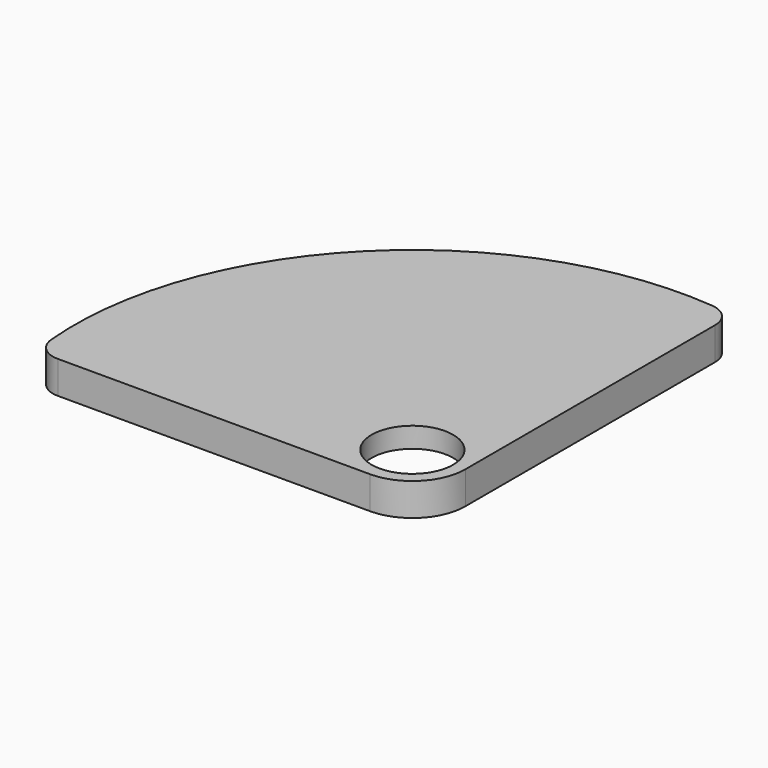
from build123d import *

# Parameters (mm, degrees)
F1_DEPTH = 4
F2_T     = -1.5
F5_DEPTH = 2.5
F6_R     = 1.5
F7_R     = 3
F9_DEPTH = 4.001


with BuildPart() as f1:
    # F0 (on Top) → F1 (new body)
    with BuildSketch(Plane.XY):
        with BuildLine():
            ThreePointArc((-6.5, 0), (-1.9038059223, 1.9038059223), (0, 6.5))
            Line((0, 6.5), (0, 47.4878030638))
            ThreePointArc((0, 47.4878030638), (-35.8449314192, 35.8449314192), (-47.4878030638, 0))
            Line((-47.4878030638, 0), (-13, 0))
            Line((-13, 0), (-6.5, 0))
        make_face()
    extrude(amount=F1_DEPTH)

    # F2
    f2_openings = [f1.faces().sort_by_distance(p)[0] for p in [
        (-21.274509, 21.274509, 4),
        (-21.274509, 21.274509, 0),
    ]]
    offset(amount=F2_T, openings=f2_openings)

    # F4 (on offset) → F5 (join)
    with BuildSketch(Plane.XY.offset(1.5)):
        with BuildLine():
            Line((-46.186269666, 1.5), (-6.5, 1.5))
            ThreePointArc((-6.5, 1.5), (-2.9644660941, 2.9644660941), (-1.5, 6.5))
            Line((-1.5, 6.5), (-1.5, 46.186269666))
            ThreePointArc((-1.5, 46.186269666), (-34.7842712475, 34.7842712475), (-46.186269666, 1.5))
        make_face()
    extrude(amount=F5_DEPTH)

    # F6
    f6_edges = [f1.edges().sort_by_distance(p)[0] for p in [
        (-1.5, 46.18627, 0.75),
        (-46.18627, 1.5, 0.75),
    ]]
    fillet(f6_edges, radius=F6_R)

    # F7
    f7_edges = [f1.edges().sort_by_distance(p)[0] for p in [
        (-47.487803, 0, 2),
        (0, 47.487803, 2),
    ]]
    fillet(f7_edges, radius=F7_R)

    # F8 (on face) → F9 (cut, through all)
    with BuildSketch(Plane(origin=(0, 0, 0), x_dir=(1, 0, 0), z_dir=(0, 0, -1))):
        with BuildLine():
            ThreePointArc((-1.5, -6.5), (-2.9644660941, -2.9644660941), (-6.5, -1.5))
            ThreePointArc((-6.5, -1.5), (-10.0355339059, -10.0355339059), (-1.5, -6.5))
        make_face()
    extrude(amount=-F9_DEPTH, mode=Mode.SUBTRACT)


solid = f1.part
